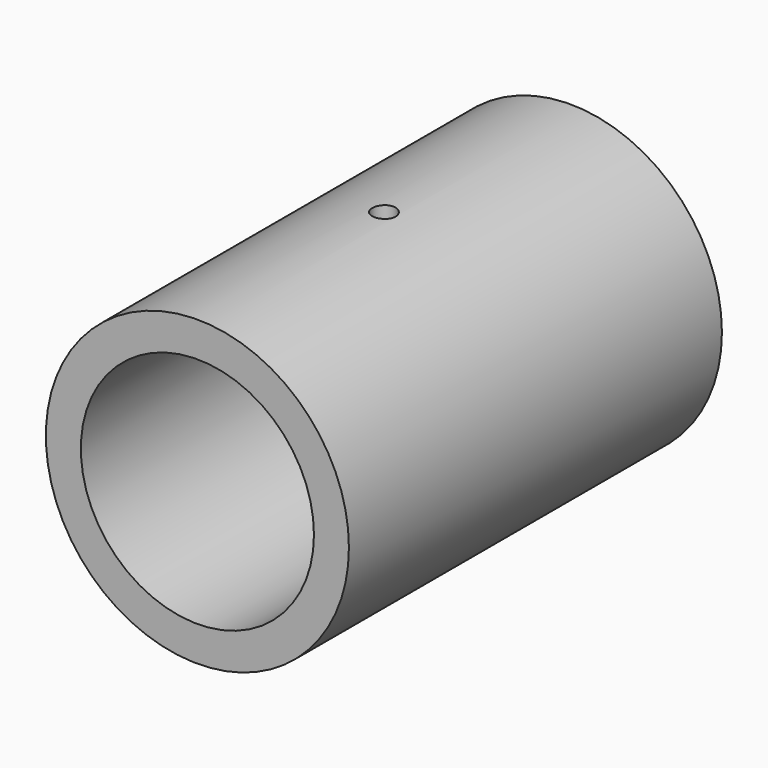
from build123d import *

# Parameters (mm, degrees)
F0_R     = 13
F0_R_2   = 10
F1_DEPTH = 20
F2_R     = 1
F3_DEPTH = 13.001


with BuildPart() as f1:
    # F0 (on Front) → F1 (new body, symmetric)
    with BuildSketch(Plane.XZ):
        Circle(F0_R)
        Circle(F0_R_2, mode=Mode.SUBTRACT)
    extrude(amount=F1_DEPTH, both=True)

    # F2 (on Top) → F3 (cut, through all)
    with BuildSketch(Plane.XY):
        Circle(F2_R)
    extrude(amount=F3_DEPTH, mode=Mode.SUBTRACT)


solid = f1.part
